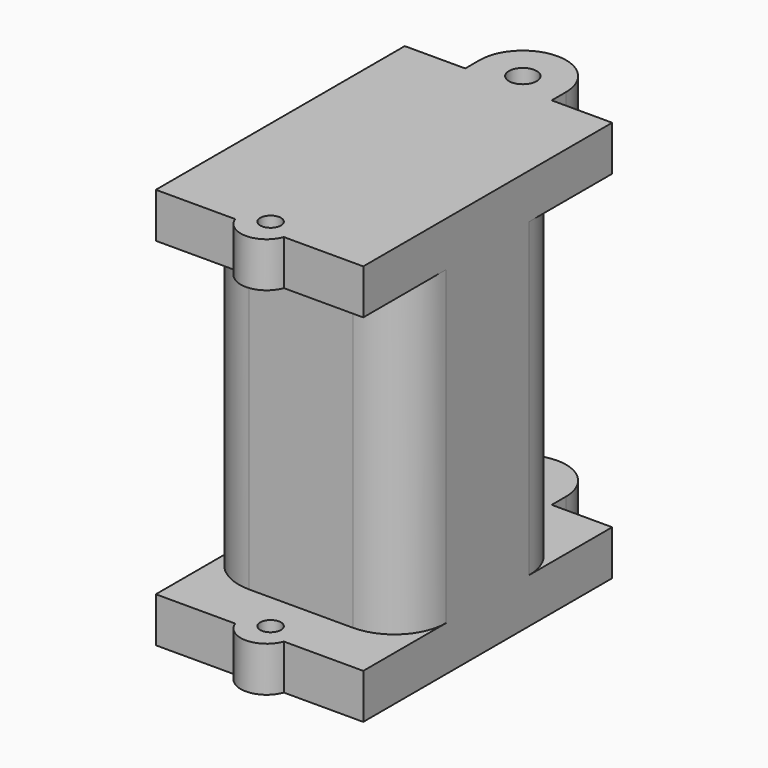
from build123d import *

# Parameters (mm, degrees)
SKETCH050_R      = 2
SKETCH050_R_2    = 1.5
EXTRUDE038_DEPTH = 6.5
EXTRUDE039_DEPTH = 45
SKETCH052_R      = 2
SKETCH052_R_2    = 1.5
EXTRUDE040_DEPTH = 6.5


with BuildPart() as extrude038:
    # Sketch050 → Extrude038 (new body)
    with BuildSketch(Plane.XY):
        with BuildLine():
            Line((-15, 22.5), (-6.25, 22.5))
            Line((-6.25, 25.100357), (-6.25, 22.5))
            ThreePointArc((6.25, 25.100357), (0, 31.350357), (-6.25, 25.100357))
            Line((6.25, 25.100357), (6.25, 22.5))
            Line((6.25, 22.5), (15, 22.5))
            Line((15, 22.5), (15, -22.5))
            Line((15, -22.5), (3.522198, -22.5))
            ThreePointArc((-3.522198, -22.5), (0, -24.962903), (3.522198, -22.5))
            Line((-3.522198, -22.5), (-15, -22.5))
            Line((-15, -22.5), (-15, 22.5))
        make_face()
        with Locations((0, 25.100357)):
            Circle(SKETCH050_R, mode=Mode.SUBTRACT)
        with Locations((0, -20.5)):
            Circle(SKETCH050_R_2, mode=Mode.SUBTRACT)
    extrude(amount=-EXTRUDE038_DEPTH)


with BuildPart() as extrude038_1:
    # Extrude038 placement: moved
    add(extrude038.part.moved(Location((0, 0, -34.999))))


with BuildPart() as extrude039:
    # Sketch051 (on Face13 of Extrude038) → Extrude039 (new body)
    with BuildSketch(Plane(origin=(0, 0, -41.499), x_dir=(1, 0, 0), z_dir=(0, 0, -1))):
        with BuildLine():
            ThreePointArc((-7.5, 15), (-12.803301, 12.803301), (-15, 7.5))
            Line((-15, -7.5), (-15, 7.5))
            ThreePointArc((-15, -7.5), (-12.803301, -12.803301), (-7.5, -15))
            Line((7.5, -15), (-7.5, -15))
            ThreePointArc((7.5, -15), (12.803301, -12.803301), (15, -7.5))
            Line((15, 7.5), (15, -7.5))
            ThreePointArc((15, 7.5), (12.803301, 12.803301), (7.5, 15))
            Line((-7.5, 15), (7.5, 15))
        make_face()
    extrude(amount=EXTRUDE039_DEPTH)


with BuildPart() as actuator_base:
    # Sketch052 → Extrude040 (new body)
    with BuildSketch(Plane.XY):
        with BuildLine():
            Line((-15, 22.5), (-6.25, 22.5))
            Line((-6.25, 25.100357), (-6.25, 22.5))
            ThreePointArc((6.25, 25.100357), (0, 31.350357), (-6.25, 25.100357))
            Line((6.25, 25.100357), (6.25, 22.5))
            Line((6.25, 22.5), (15, 22.5))
            Line((15, 22.5), (15, -22.5))
            Line((15, -22.5), (3.522198, -22.5))
            ThreePointArc((-3.522198, -22.5), (0, -24.962903), (3.522198, -22.5))
            Line((-3.522198, -22.5), (-15, -22.5))
            Line((-15, -22.5), (-15, 22.5))
        make_face()
        with Locations((0, 25.100357)):
            Circle(SKETCH052_R, mode=Mode.SUBTRACT)
        with Locations((0, -20.5)):
            Circle(SKETCH052_R_2, mode=Mode.SUBTRACT)
    extrude(amount=-EXTRUDE040_DEPTH)


with BuildPart() as actuator_base_1:
    # Extrude040 placement: moved
    add(actuator_base.part.moved(Location((0, 0, -86.499))))

    # Fusion017: union Extrude038, Extrude039
    add(extrude038_1.part)
    add(extrude039.part)


solid = actuator_base_1.part
